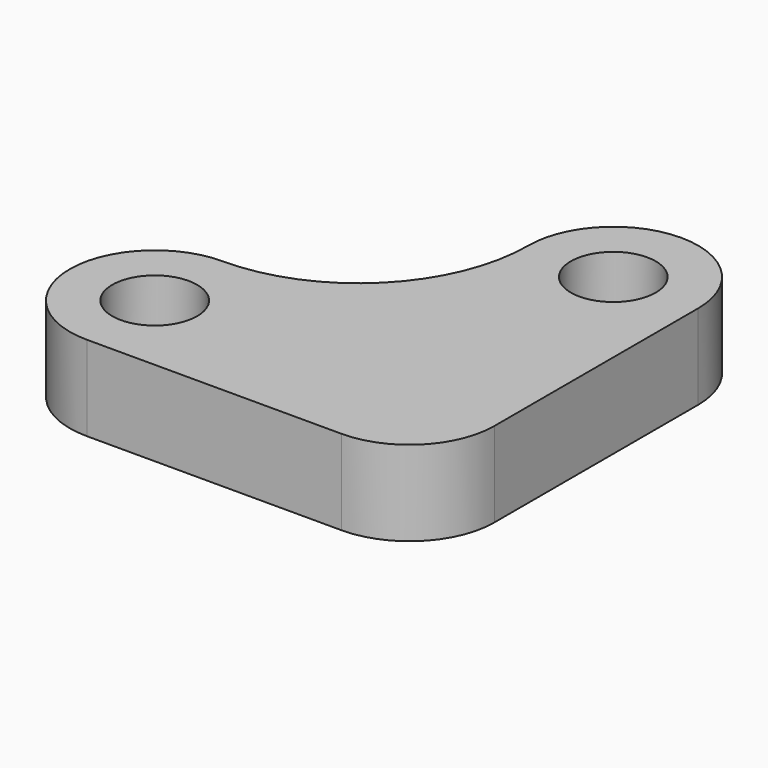
from build123d import *

# Parameters (mm, degrees)
F0_R     = 63.5
F1_DEPTH = 127


with BuildPart() as f1:
    # F0 (on Top) → F1 (new body)
    with BuildSketch(Plane.XY):
        with BuildLine():
            Line((127, 0), (127, 381))
            ThreePointArc((127, 381), (0, 508), (-127, 381))
            ThreePointArc((-127, 381), (-201.394878, 201.394878), (-381, 127))
            ThreePointArc((-381, 127), (-508, 0), (-381, -127))
            Line((-381, -127), (0, -127))
            ThreePointArc((0, -127), (89.802561, -89.802561), (127, 0))
        make_face()
        with Locations((-381, 0)):
            Circle(F0_R, mode=Mode.SUBTRACT)
        with Locations((0, 381)):
            Circle(F0_R, mode=Mode.SUBTRACT)
    extrude(amount=F1_DEPTH)


solid = f1.part
